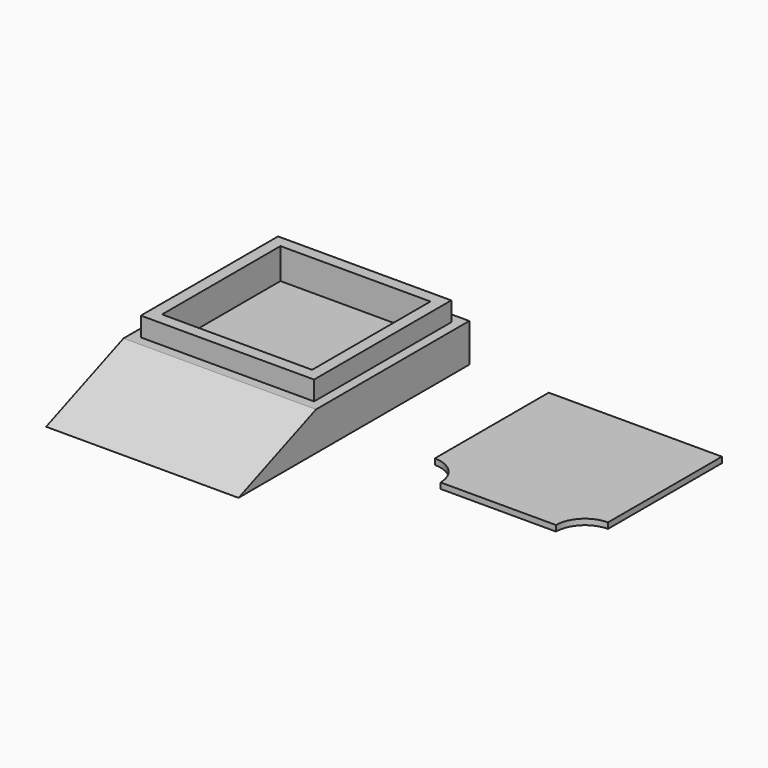
from build123d import *

# Parameters (mm, degrees)
F0_W      = 100
F0_H      = 100
F0_H_2    = 49.8520702124
F1_DEPTH  = 20
F3_DEPTH  = 100.001
F4_W      = 6.0849060118
F4_H      = 6.1825428903
F4_W_2    = 77.9408477247
F4_H_2    = 76.879478991
F4_W_3    = 5.9742462635
F4_H_3    = 6.0356323421
F5_DEPTH  = 10
F6_DEPTH  = 6
F7_W      = 90
F7_H      = 89
F8_DEPTH  = 3
F10_DEPTH = 25


with BuildPart() as f1:
    # F0 (on Top) → F1 (new body)
    with BuildSketch(Plane.XY):
        Rectangle(F0_W, F0_H)
        with Locations((0, -74.9260351062)):
            Rectangle(F0_W, F0_H_2)
    extrude(amount=F1_DEPTH)

    # F2 (on face) → F3 (cut, through all)
    with BuildSketch(Plane.YZ.offset(50)):
        Polygon((-99.8520702124, 20), (-99.8520702124, 0), (-49.5488271117, 20), align=None)
    extrude(amount=-F3_DEPTH, mode=Mode.SUBTRACT)

    # F4 (on face) → F5 (join)
    with BuildSketch(Plane.XY.offset(20)):
        with Locations((-41.9575469941, -41.4575556666)):
            Rectangle(F4_W, F4_H)
        with Locations((0.0553298742, -41.4575556666)):
            Rectangle(F4_W_2, F4_H)
        with Locations((-41.9575469941, 0.0734552741)):
            Rectangle(F4_W, F4_H_2)
        with Locations((42.0128768682, -41.4575556666)):
            Rectangle(F4_W_3, F4_H)
        with Locations((-41.9575469941, 41.5310109407)):
            Rectangle(F4_W, F4_H_3)
        with Locations((0.0553298742, 41.5310109407)):
            Rectangle(F4_W_2, F4_H_3)
        with Locations((42.0128768682, 0.0734552741)):
            Rectangle(F4_W_3, F4_H_2)
        with Locations((42.0128768682, 41.5310109407)):
            Rectangle(F4_W_3, F4_H_3)
    extrude(amount=F5_DEPTH)

    # F6 (cut): a face of the model
    f6_faces = [f1.faces().sort_by_distance(p)[0] for p in [
        (0.0553298742, 0.0734552741, 20),
    ]]
    extrude(f6_faces, amount=-F6_DEPTH, mode=Mode.SUBTRACT)


with BuildPart() as f8:
    # F7 (on Top) → F8 (new body)
    with BuildSketch(Plane.XY):
        with Locations((139.1120888293, 1.9507788171)):
            Rectangle(F7_W, F7_H)
    extrude(amount=F8_DEPTH)

    # F9 (on face) → F10 (cut)
    with BuildSketch(Plane.XY.offset(3)):
        with BuildLine():
            Line((94.1120888293, -42.5492211829), (109.1120888293, -42.5492211829))
            ThreePointArc((109.1120888293, -42.5492211829), (104.7186905471, -31.9426194651), (94.1120888293, -27.5492211829))
            Line((94.1120888293, -27.5492211829), (94.1120888293, -42.5492211829))
        make_face()
        with BuildLine():
            ThreePointArc((184.1120888293, -27.5492211829), (173.5054871115, -31.9426194651), (169.1120888293, -42.5492211829))
            Line((169.1120888293, -42.5492211829), (184.1120888293, -42.5492211829))
            Line((184.1120888293, -42.5492211829), (184.1120888293, -27.5492211829))
        make_face()
    extrude(amount=-F10_DEPTH, mode=Mode.SUBTRACT)


solid = Compound([f1.part, f8.part])
